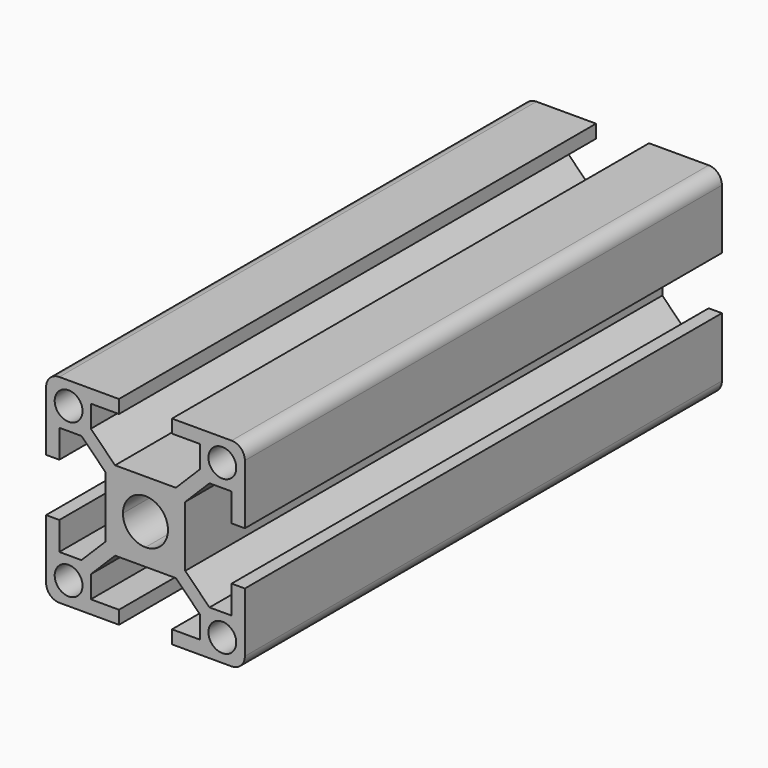
from build123d import *

# Parameters (mm, degrees)
F0_R     = 2.1
F1_DEPTH = 90


with BuildPart() as f1:
    # F0 (on Front) → F1 (new body)
    with BuildSketch(Plane.XZ):
        with BuildLine():
            Line((4.585786, 6), (0, 6))
            Line((0, 6), (-4.585786, 6))
            Line((-4.585786, 6), (-8.25, 9.664214))
            Line((-8.25, 9.664214), (-8.25, 13))
            Line((-8.25, 13), (-4, 13))
            Line((-4, 13), (-4, 15))
            Line((-4, 15), (-13, 15))
            ThreePointArc((-13, 15), (-14.414214, 14.414214), (-15, 13))
            Line((-15, 13), (-15, 4))
            Line((-15, 4), (-13, 4))
            Line((-13, 4), (-13, 8.25))
            Line((-13, 8.25), (-9.664214, 8.25))
            Line((-9.664214, 8.25), (-6, 4.585786))
            Line((-6, 4.585786), (-6, 0))
            Line((-6, 0), (-6, -4.585786))
            Line((-6, -4.585786), (-9.664214, -8.25))
            Line((-9.664214, -8.25), (-13, -8.25))
            Line((-13, -8.25), (-13, -4))
            Line((-13, -4), (-15, -4))
            Line((-15, -4), (-15, -13))
            ThreePointArc((-15, -13), (-14.414214, -14.414214), (-13, -15))
            Line((-13, -15), (-4, -15))
            Line((-4, -15), (-4, -13))
            Line((-4, -13), (-8.25, -13))
            Line((-8.25, -13), (-8.25, -9.664214))
            Line((-8.25, -9.664214), (-4.585786, -6))
            Line((-4.585786, -6), (0, -6))
            Line((0, -6), (4.585786, -6))
            Line((4.585786, -6), (8.25, -9.664214))
            Line((8.25, -9.664214), (8.25, -13))
            Line((8.25, -13), (4, -13))
            Line((4, -13), (4, -15))
            Line((4, -15), (13, -15))
            ThreePointArc((13, -15), (14.414214, -14.414214), (15, -13))
            Line((15, -13), (15, -4))
            Line((15, -4), (13, -4))
            Line((13, -4), (13, -8.25))
            Line((13, -8.25), (9.664214, -8.25))
            Line((9.664214, -8.25), (6, -4.585786))
            Line((6, -4.585786), (6, 0))
            Line((6, 0), (6, 4.585786))
            Line((6, 4.585786), (9.664214, 8.25))
            Line((9.664214, 8.25), (13, 8.25))
            Line((13, 8.25), (13, 4))
            Line((13, 4), (15, 4))
            Line((15, 4), (15, 13))
            ThreePointArc((15, 13), (14.414214, 14.414214), (13, 15))
            Line((13, 15), (4, 15))
            Line((4, 15), (4, 13))
            Line((4, 13), (8.25, 13))
            Line((8.25, 13), (8.25, 9.664214))
            Line((8.25, 9.664214), (4.585786, 6))
        make_face()
        with Locations((-11.6, -11.6)):
            Circle(F0_R, mode=Mode.SUBTRACT)
        with Locations((11.6, -11.6)):
            Circle(F0_R, mode=Mode.SUBTRACT)
        with Locations((-11.6, 11.6)):
            Circle(F0_R, mode=Mode.SUBTRACT)
        with BuildLine():
            ThreePointArc((-3.4, 0), (-2.404163, 2.404163), (0, 3.4))
            ThreePointArc((0, 3.4), (2.404163, 2.404163), (3.4, 0))
            ThreePointArc((3.4, 0), (2.404163, -2.404163), (0, -3.4))
            ThreePointArc((0, -3.4), (-2.404163, -2.404163), (-3.4, 0))
        make_face(mode=Mode.SUBTRACT)
        with Locations((11.6, 11.6)):
            Circle(F0_R, mode=Mode.SUBTRACT)
    extrude(amount=F1_DEPTH)


solid = f1.part
